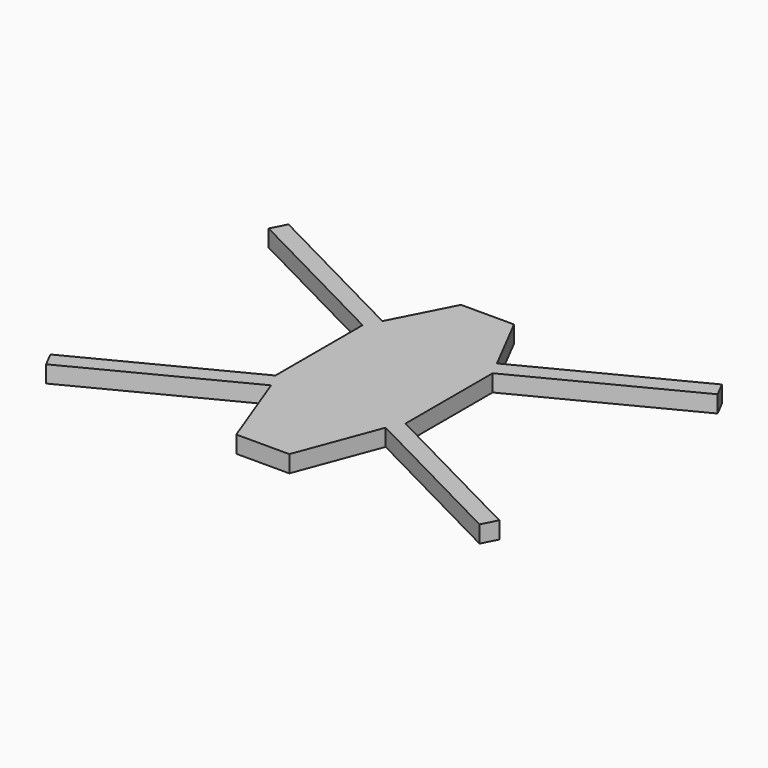
from build123d import *

# Parameters (mm, degrees)
F1_DEPTH = 19


with BuildPart() as f1:
    # F0 (on Top) → F1 (new body)
    with BuildSketch(Plane.XY):
        Polygon((-64.242102, 77.992051), (-243, 169.897513), (-251.687581, 153), (-72.929683, 61.094538), (-72.929683, -61.094538), (-251.687581, -153), (-243, -169.897513), (-64.242102, -77.992051), (-29.738364, -169.897513), (0, -169.897513), (29.738364, -169.897513), (64.242102, -77.992051), (243, -169.897513), (251.687581, -153), (72.929683, -61.094538), (72.929683, 61.094538), (251.687581, 153), (243, 169.897513), (64.242102, 77.992051), (29.738364, 145.102487), (0, 145.102487), (-29.738364, 145.102487), align=None)
    extrude(amount=-F1_DEPTH)


solid = f1.part
